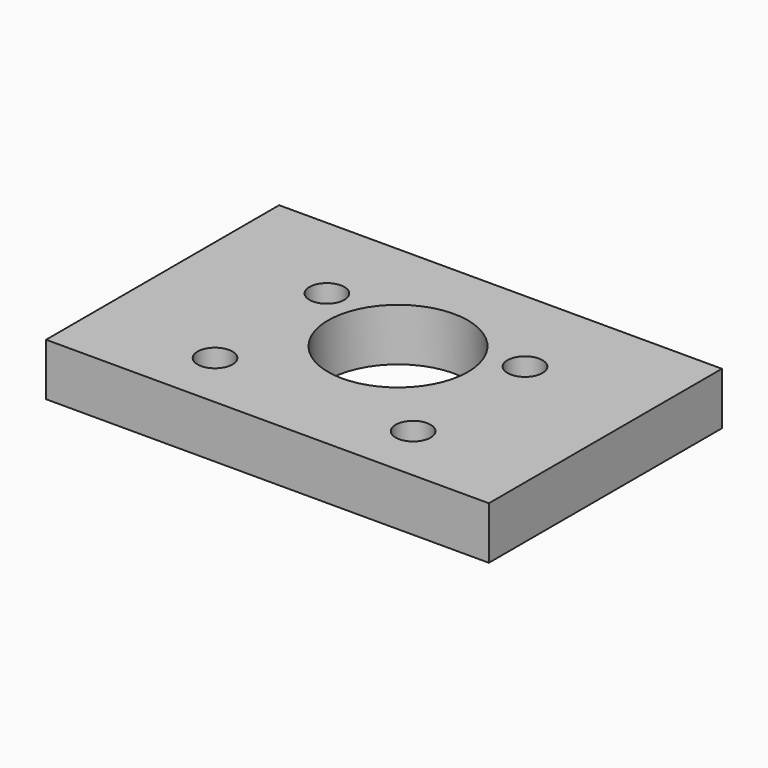
from build123d import *

# Parameters (mm, degrees)
F1_DEPTH = 25
F2_R     = 6
F2_R_2   = 1.5
F3_DEPTH = 4.5


with BuildPart() as f1:
    # F0 (on Front) → F1 (new body)
    with BuildSketch(Plane.XZ):
        Polygon((19, 56), (-19, 56), (-19, 51.5), (-15, 51.5), (15, 51.5), (19, 51.5), align=None)
    extrude(amount=-F1_DEPTH)

    # F2 (on face) → F3 (cut, through all)
    with BuildSketch(Plane.XY.offset(56)):
        with Locations((0, 14)):
            Circle(F2_R)
        with Locations((-8.5, 5)):
            Circle(F2_R_2)
        with Locations((8.5, 5)):
            Circle(F2_R_2)
        with Locations((-8.5, 17)):
            Circle(F2_R_2)
        with Locations((8.5, 17)):
            Circle(F2_R_2)
    extrude(amount=-F3_DEPTH, mode=Mode.SUBTRACT)


solid = f1.part
